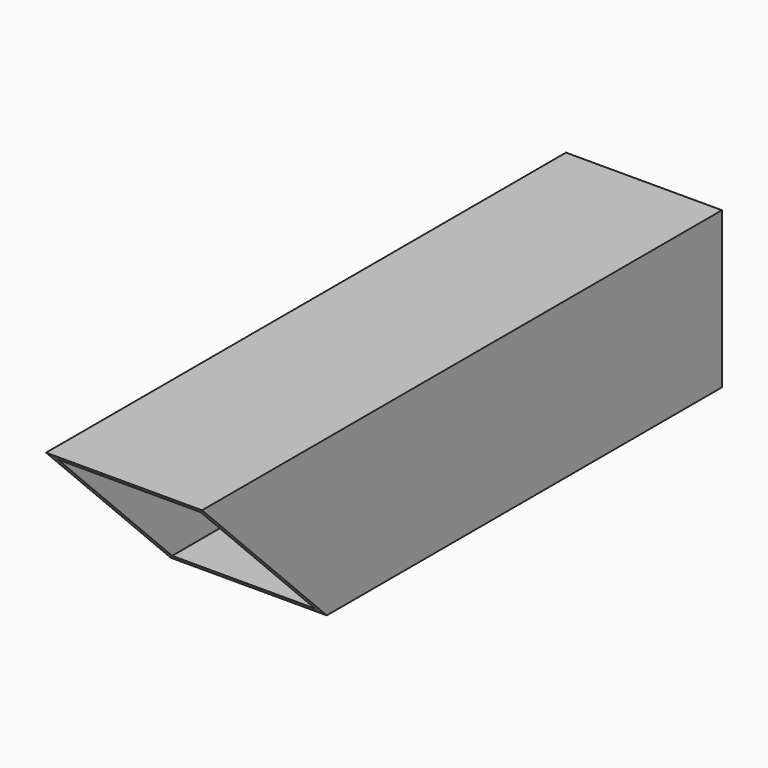
from build123d import *

# Parameters (mm, degrees)
F0_W     = 60
F0_H     = 60
F0_W_2   = 55
F0_H_2   = 55
F1_DEPTH = 250
F3_DEPTH = 70


with BuildPart() as f1:
    # F0 (on Front) → F1 (new body)
    with BuildSketch(Plane.XZ):
        Rectangle(F0_W, F0_H)
        Rectangle(F0_W_2, F0_H_2, mode=Mode.SUBTRACT)
    extrude(amount=-F1_DEPTH)

    # F2 (on face) → F3 (cut)
    with BuildSketch(Plane.YZ.offset(30)):
        Polygon((60, -30), (0, 30), (0, -30), align=None)
    extrude(amount=-F3_DEPTH, mode=Mode.SUBTRACT)


solid = f1.part
